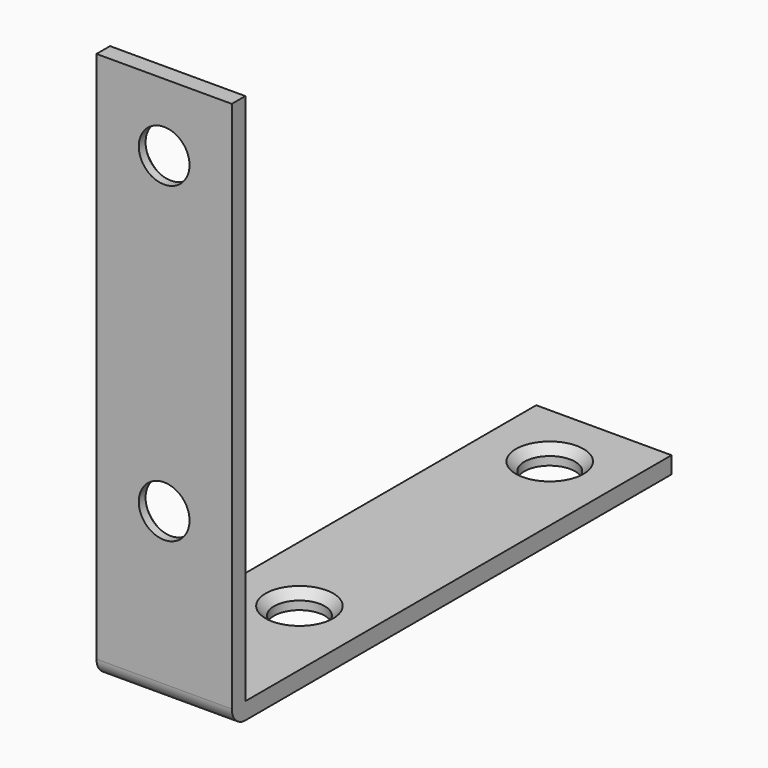
from build123d import *

# Parameters (mm, degrees)
F0_W     = 16
F0_H     = 65
F1_DEPTH = 2
F2_W     = 16
F2_H     = 2
F3_DEPTH = 63
F4_R     = 3
F5_DEPTH = 2.001
F6_R     = 3
F7_DEPTH = 65.001
F8_SIZE  = 1
F9_R     = 2


with BuildPart() as f1:
    # F0 (on Top) → F1 (new body)
    with BuildSketch(Plane.XY):
        with Locations((8, 32.5)):
            Rectangle(F0_W, F0_H)
    extrude(amount=F1_DEPTH)

    # F2 (on face) → F3 (join)
    with BuildSketch(Plane.XY.offset(2)):
        with Locations((8, 1)):
            Rectangle(F2_W, F2_H)
    extrude(amount=F3_DEPTH)

    # F4 (on face) → F5 (cut, through all)
    with BuildSketch(Plane.XY.offset(2)):
        with Locations((8, 57)):
            Circle(F4_R)
        with Locations((8, 20)):
            Circle(F4_R)
    extrude(amount=-F5_DEPTH, mode=Mode.SUBTRACT)

    # F6 (on face) → F7 (cut, through all)
    with BuildSketch(Plane.XZ):
        with Locations((8, 57)):
            Circle(F6_R)
        with Locations((8, 20)):
            Circle(F6_R)
    extrude(amount=-F7_DEPTH, mode=Mode.SUBTRACT)

    # F8
    f8_edges = [f1.edges().sort_by_distance(p)[0] for p in [
        (5, 2, 57),
        (5, 2, 20),
        (5, 20, 2),
        (5, 57, 2),
    ]]
    chamfer(f8_edges, length=F8_SIZE)

    # F9
    f9_edges = [f1.edges().sort_by_distance(p)[0] for p in [
        (8, 0, 0),
    ]]
    fillet(f9_edges, radius=F9_R)


solid = f1.part
